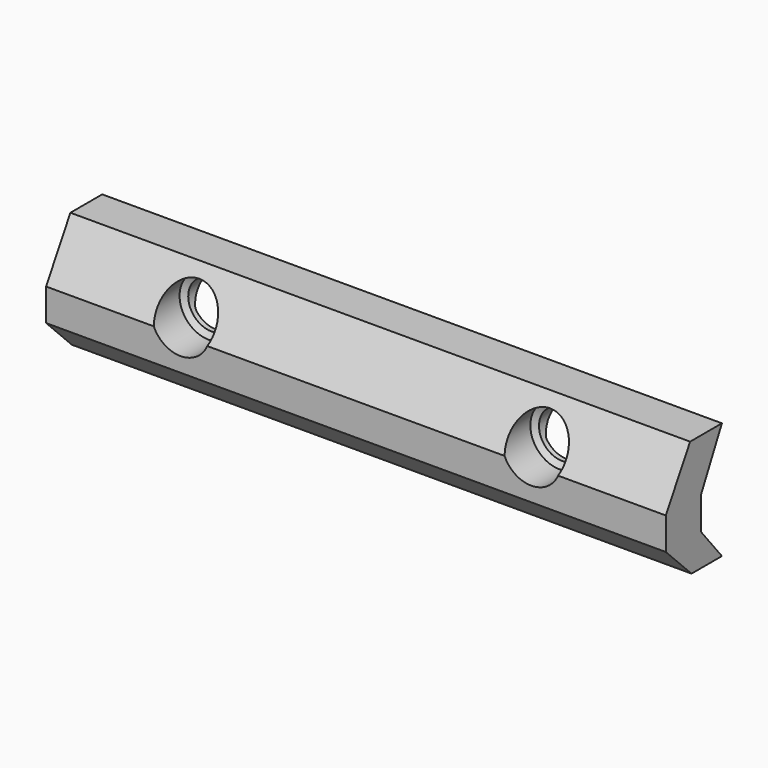
from build123d import *

# Parameters (mm, degrees)
F1_DEPTH = 53
F3_D     = 4
F3_DEPTH = 7.5
F3_START = 1.7320508
F3_TIP   = 1.2017212381
F4_D     = 4
F4_DEPTH = 7.5
F4_START = 1.7320508
F4_TIP   = 1.2017212381
F5_D     = 5
F5_DEPTH = 1
F5_START = 2.0207259
F5_TIP   = 1.5021515476
F6_D     = 5
F6_DEPTH = 1
F6_START = 2.0207259
F6_TIP   = 1.5021515476


with BuildPart() as f1:
    # F0 (on Right) → F1 (new body)
    with BuildSketch(Plane.YZ):
        Polygon((0, 2.75), (2.75, 0), (6, 0), (3.75, 2.75), (3.75, 5.5), (6, 10), (2.5980762114, 10), (0, 5.5), align=None)
    extrude(amount=F1_DEPTH)

    # F3
    # its depths count from where the whole tool has entered the part; down to there all is cleared
    with Locations(Plane.XZ.offset(-F3_START)):
        with Locations((11.5, 6.5)):
            Hole(F3_D / 2, depth=F3_DEPTH)
            with Locations((0, 0, -(F3_DEPTH + F3_TIP / 2))):  # 118° drill point
                Cone(0, F3_D / 2, F3_TIP, mode=Mode.SUBTRACT)

    # F4
    # its depths count from where the whole tool has entered the part; down to there all is cleared
    with Locations(Plane.XZ.offset(-F4_START)):
        with Locations((41.5, 6.5)):
            Hole(F4_D / 2, depth=F4_DEPTH)
            with Locations((0, 0, -(F4_DEPTH + F4_TIP / 2))):  # 118° drill point
                Cone(0, F4_D / 2, F4_TIP, mode=Mode.SUBTRACT)

    # F5
    # its depths count from where the whole tool has entered the part; down to there all is cleared
    with Locations(Plane.XZ):
        with Locations((11.5, 6.5)):
            Hole(F5_D / 2, depth=F5_START)
    with Locations(Plane.XZ.offset(-F5_START)):
        with Locations((11.5, 6.5)):
            Hole(F5_D / 2, depth=F5_DEPTH)
            with Locations((0, 0, -(F5_DEPTH + F5_TIP / 2))):  # 118° drill point
                Cone(0, F5_D / 2, F5_TIP, mode=Mode.SUBTRACT)

    # F6
    # its depths count from where the whole tool has entered the part; down to there all is cleared
    with Locations(Plane.XZ):
        with Locations((41.5, 6.5)):
            Hole(F6_D / 2, depth=F6_START)
    with Locations(Plane.XZ.offset(-F6_START)):
        with Locations((41.5, 6.5)):
            Hole(F6_D / 2, depth=F6_DEPTH)
            with Locations((0, 0, -(F6_DEPTH + F6_TIP / 2))):  # 118° drill point
                Cone(0, F6_D / 2, F6_TIP, mode=Mode.SUBTRACT)


solid = f1.part
